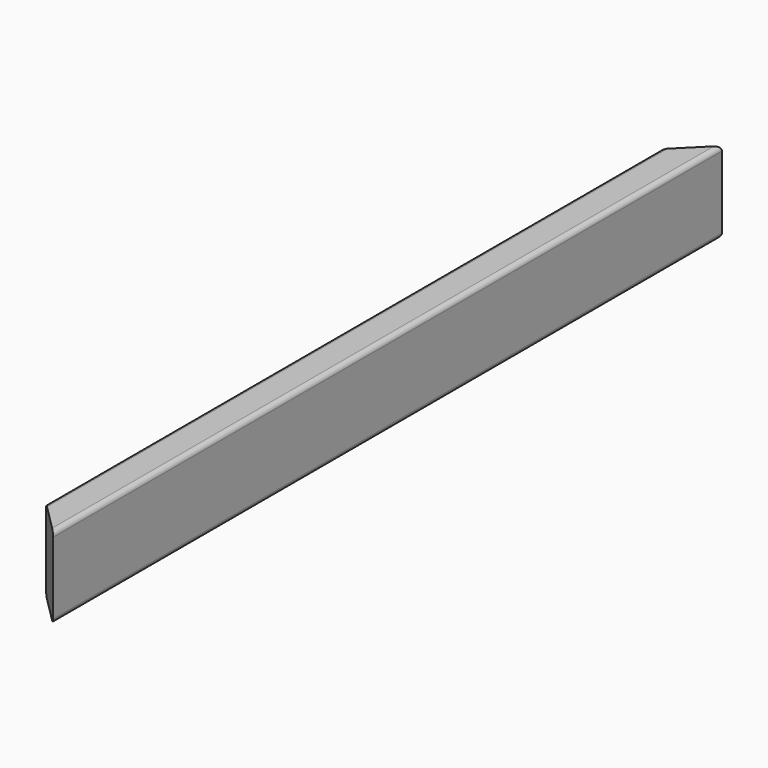
from build123d import *

# Parameters (mm, degrees)
F0_W     = 38.1
F0_H     = 88.9
F1_DEPTH = 914.4
F3_DEPTH = 88.9
F4_R     = 5.08


with BuildPart() as f1:
    # F0 (on Front) → F1 (new body)
    with BuildSketch(Plane.XZ):
        with Locations((-4.357182, 2.600797)):
            Rectangle(F0_W, F0_H)
    extrude(amount=F1_DEPTH)

    # F2 (on face) → F3 (cut)
    with BuildSketch(Plane.XY.offset(47.050797)):
        Polygon((-23.407182, -914.4), (14.692818, -914.4), (-23.407182, -876.3), align=None)
        Polygon((-23.407182, -38.1), (14.692818, 0), (-23.407182, 0), align=None)
    extrude(amount=-F3_DEPTH, mode=Mode.SUBTRACT)

    # F4
    f4_edges = [f1.edges().sort_by_distance(p)[0] for p in [
        (-23.407182, -457.2, 47.050797),
        (14.692818, -457.2, 47.050797),
        (-23.407182, -457.2, -41.849203),
        (14.692818, -457.2, -41.849203),
    ]]
    fillet(f4_edges, radius=F4_R)


solid = f1.part
